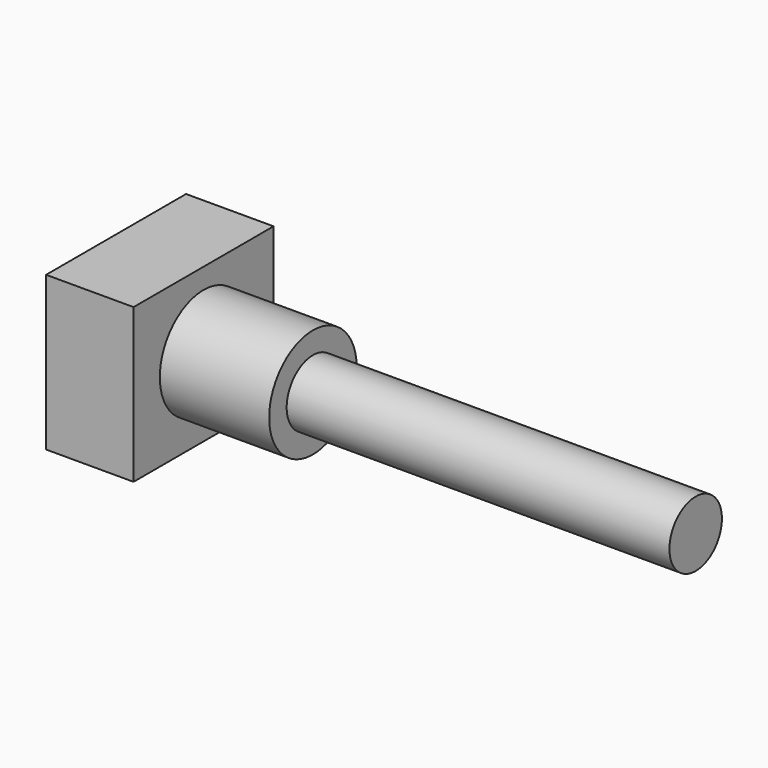
from build123d import *

# Parameters (mm, degrees)
F0_R     = 5
F1_DEPTH = 10
F2_R     = 3
F3_DEPTH = 35
F4_W     = 16
F4_H     = 14.067116
F5_DEPTH = 8


with BuildPart() as f1:
    # F0 (on Right) → F1 (new body)
    with BuildSketch(Plane.YZ):
        Circle(F0_R)
    extrude(amount=F1_DEPTH)

    # F2 (on face) → F3 (join)
    with BuildSketch(Plane.YZ.offset(10)):
        Circle(F2_R)
    extrude(amount=F3_DEPTH)

    # F4 (on face) → F5 (join)
    with BuildSketch(Plane(origin=(0, 0, 0), x_dir=(0, -1, 0), z_dir=(-1, 0, 0))):
        with Locations((0, -0.167443)):
            Rectangle(F4_W, F4_H)
    extrude(amount=F5_DEPTH)


solid = f1.part
